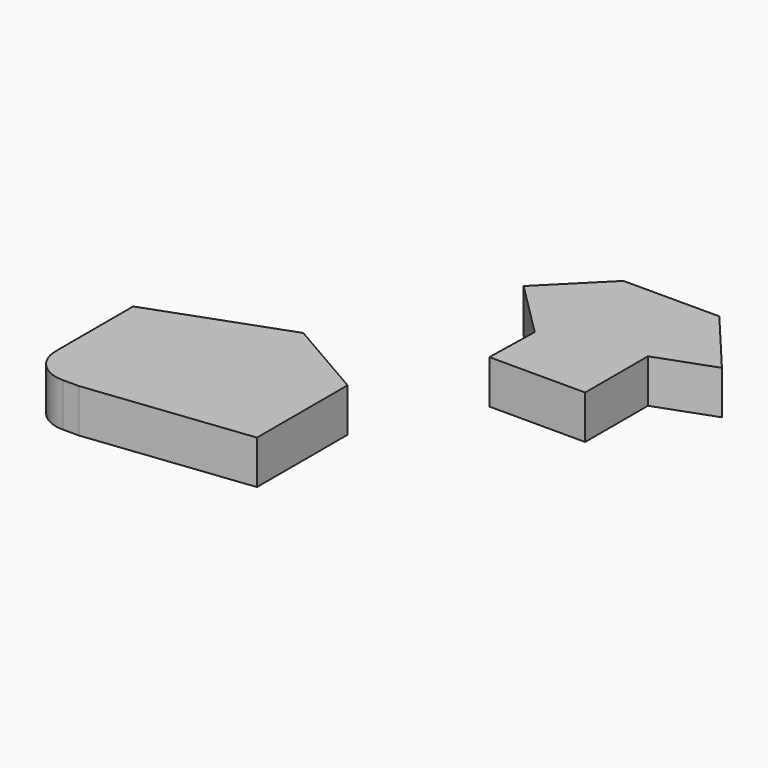
from build123d import *

# Parameters (mm, degrees)
F1_DEPTH = 25
F2_DEPTH = 25


with BuildPart() as f1:
    # F0 (on Top) → F1 (new body)
    with BuildSketch(Plane.XY):
        Polygon((-33.704978, -0.456908), (-34.454839, -32.090225), (20.545161, -32.090225), (20.545161, 12.909775), (53.434403, 24.88048), (21.295022, 63.182702), (-33.704978, 63.182702), (-65.524783, 31.362897), align=None)
    extrude(amount=F1_DEPTH)


with BuildPart() as f2:
    # F0 (on Top) → F2 (new body)
    with BuildSketch(Plane.XY):
        with BuildLine():
            Line((-66.950455, -158.120468), (-66.950455, -93.120468))
            Line((-66.950455, -93.120468), (-114.164111, -65.861652))
            Line((-114.164111, -65.861652), (-189.762651, -93.37727))
            Line((-189.762651, -93.37727), (-189.762651, -148.8665))
            ThreePointArc((-189.762651, -148.8665), (-183.904786, -163.008636), (-169.762651, -168.8665))
            Line((-169.762651, -168.8665), (-160.488829, -168.8665))
            Line((-160.488829, -168.8665), (-66.950455, -158.120468))
        make_face()
    extrude(amount=F2_DEPTH)


solid = Compound([f1.part, f2.part])
